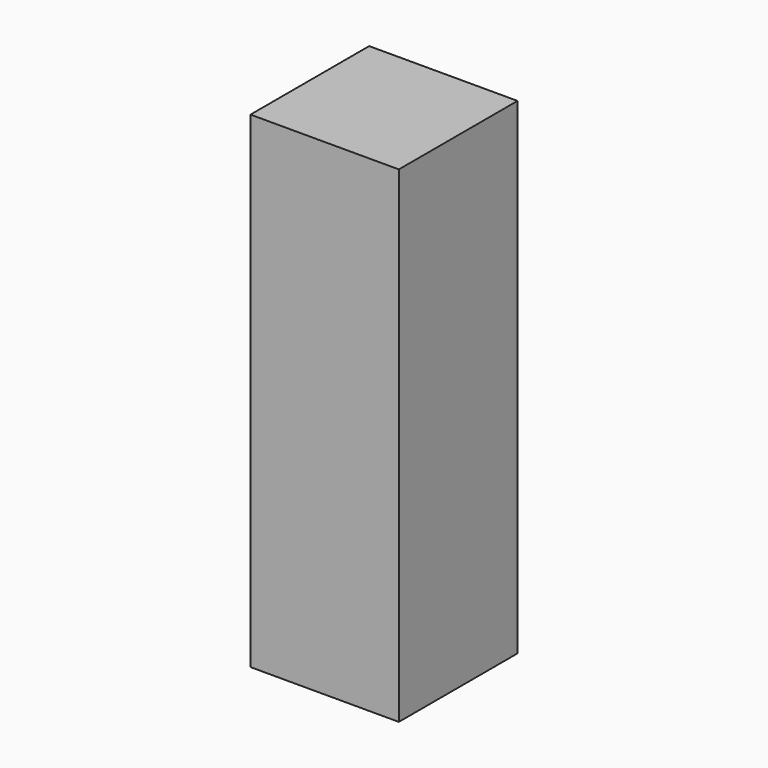
from build123d import *

# Parameters (mm, degrees)
F0_W     = 610
F0_H     = 610
F1_DEPTH = 2000


with BuildPart() as f1:
    # F0 (on Top) → F1 (new body)
    with BuildSketch(Plane.XY):
        with Locations((305, -305)):
            Rectangle(F0_W, F0_H)
    extrude(amount=F1_DEPTH)

    # F6: F1 across plane


with BuildPart() as f1_1:
    add(f1.part)
    add(f1.part.mirror(Plane(origin=(0, -305, 2000), x_dir=(1, 0, 0), z_dir=(0, -1, 0))))


solid = f1_1.part
